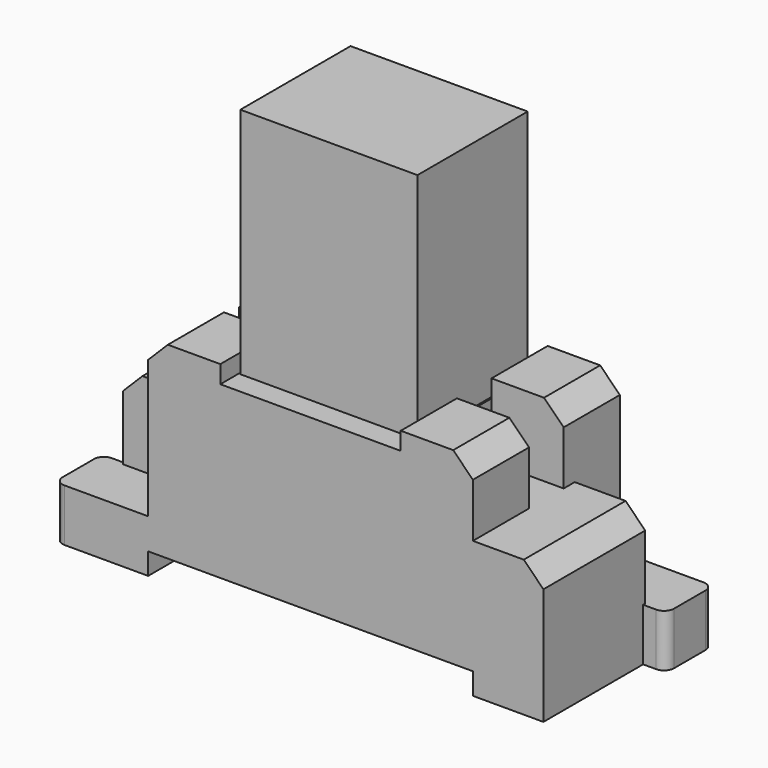
from build123d import *

# Parameters (mm, degrees)
F0_W     = 10.75
F0_H     = 8.6
F1_DEPTH = 3.3
F0_W_2   = 27
F0_H_2   = 21
F0_W_3   = 7.25
F0_H_3   = 10.7
F0_H_4   = 6.6
F0_W_4   = 3.75
F2_DEPTH = 4.7
F3_DEPTH = 17.5
F4_DEPTH = 28.7
F5_DEPTH = 26
F6_DEPTH = 61.5
F7_SIZE  = 3
F8_R     = 1.5


with BuildPart() as f1:
    # F0 (on Top) → F1 (new body)
    with BuildSketch(Plane.XY):
        Polygon((-3.5, 0), (0, 0), (0, 8.6), (0, 9), (-3.5, 9), align=None)
        with Locations((5.375, 4.3)):
            Rectangle(F0_W, F0_H)
        Polygon((0, 9), (0, 8.6), (10.75, 8.6), (10.75, 10.7), (10.75, 17.3), (10.75, 28), (0, 28), (0, 19), align=None)
    extrude(amount=-F1_DEPTH)



with BuildPart() as f1b:
    # F0 (on Top) → F1, piece 2 (new body)
    with BuildSketch(Plane.XY):
        Polygon((71, 19.4), (71, 19), (74.5, 19), (74.5, 28), (71, 28), align=None)
        with Locations((65.625, 23.7)):
            Rectangle(F0_W, F0_H)
        Polygon((60.25, 10.7), (60.25, 0), (71, 0), (71, 9), (71, 19), (71, 19.4), (60.25, 19.4), (60.25, 17.3), align=None)
    extrude(amount=-F1_DEPTH)


with BuildPart() as f1_1:
    add(f1.part)

    add(f1b.part)  # F2 merges F1b
    # F0 (on Top) → F2 (join)
    with BuildSketch(Plane.XY):
        Polygon((21.75, 10.7), (21.75, 0), (49.25, 0), (49.25, 10.7), (49.25, 17.3), (49.25, 28), (21.75, 28), (21.75, 17.3), align=None)
        with Locations((35.5, 14)):
            Rectangle(F0_W_2, F0_H_2, mode=Mode.SUBTRACT)
        with Locations((35.5, 14)):
            Rectangle(F0_W_2, F0_H_2)
        Polygon((0, 9), (0, 8.6), (10.75, 8.6), (10.75, 10.7), (10.75, 17.3), (10.75, 28), (0, 28), (0, 19), align=None)
        Polygon((60.25, 10.7), (60.25, 0), (71, 0), (71, 9), (71, 19), (71, 19.4), (60.25, 19.4), (60.25, 17.3), align=None)
        with Locations((65.625, 23.7)):
            Rectangle(F0_W, F0_H)
        with Locations((5.375, 4.3)):
            Rectangle(F0_W, F0_H)
        with Locations((56.625, 5.35)):
            Rectangle(F0_W_3, F0_H_3)
        Polygon((53, 28), (53, 17.3), (60.25, 17.3), (60.25, 19.4), (60.25, 28), align=None)
        Polygon((10.75, 8.6), (10.75, 0), (18, 0), (18, 10.7), (10.75, 10.7), align=None)
        with Locations((14.375, 22.65)):
            Rectangle(F0_W_3, F0_H_3)
        with Locations((14.375, 14)):
            Rectangle(F0_W_3, F0_H_4)
        with Locations((56.625, 14)):
            Rectangle(F0_W_3, F0_H_4)
        with Locations((51.125, 5.35)):
            Rectangle(F0_W_4, F0_H_3)
        with Locations((19.875, 5.35)):
            Rectangle(F0_W_4, F0_H_3)
        with Locations((51.125, 22.65)):
            Rectangle(F0_W_4, F0_H_3)
        with Locations((19.875, 22.65)):
            Rectangle(F0_W_4, F0_H_3)
        Polygon((71, 19.4), (71, 19), (74.5, 19), (74.5, 28), (71, 28), align=None)
        Polygon((-3.5, 0), (0, 0), (0, 8.6), (0, 9), (-3.5, 9), align=None)
        with Locations((19.875, 14)):
            Rectangle(F0_W_4, F0_H_4)
        with Locations((51.125, 14)):
            Rectangle(F0_W_4, F0_H_4)
    extrude(amount=F2_DEPTH)

    # F0 (on Top) → F3 (join)
    with BuildSketch(Plane.XY):
        Polygon((0, 9), (0, 8.6), (10.75, 8.6), (10.75, 10.7), (10.75, 17.3), (10.75, 28), (0, 28), (0, 19), align=None)
        Polygon((60.25, 10.7), (60.25, 0), (71, 0), (71, 9), (71, 19), (71, 19.4), (60.25, 19.4), (60.25, 17.3), align=None)
        with Locations((14.375, 14)):
            Rectangle(F0_W_3, F0_H_4)
        with Locations((19.875, 14)):
            Rectangle(F0_W_4, F0_H_4)
        with Locations((51.125, 14)):
            Rectangle(F0_W_4, F0_H_4)
        with Locations((56.625, 14)):
            Rectangle(F0_W_3, F0_H_4)
    extrude(amount=F3_DEPTH)

    # F0 (on Top) → F4 (join)
    with BuildSketch(Plane.XY):
        with Locations((14.375, 22.65)):
            Rectangle(F0_W_3, F0_H_3)
        Polygon((10.75, 8.6), (10.75, 0), (18, 0), (18, 10.7), (10.75, 10.7), align=None)
        with Locations((19.875, 5.35)):
            Rectangle(F0_W_4, F0_H_3)
        with Locations((19.875, 22.65)):
            Rectangle(F0_W_4, F0_H_3)
        with Locations((51.125, 22.65)):
            Rectangle(F0_W_4, F0_H_3)
        Polygon((53, 28), (53, 17.3), (60.25, 17.3), (60.25, 19.4), (60.25, 28), align=None)
        with Locations((56.625, 5.35)):
            Rectangle(F0_W_3, F0_H_3)
        with Locations((51.125, 5.35)):
            Rectangle(F0_W_4, F0_H_3)
    extrude(amount=F4_DEPTH)

    # F0 (on Top) → F5 (join)
    with BuildSketch(Plane.XY):
        Polygon((21.75, 10.7), (21.75, 0), (49.25, 0), (49.25, 10.7), (49.25, 17.3), (49.25, 28), (21.75, 28), (21.75, 17.3), align=None)
        with Locations((35.5, 14)):
            Rectangle(F0_W_2, F0_H_2, mode=Mode.SUBTRACT)
    extrude(amount=F5_DEPTH)

    # F0 (on Top) → F6 (join)
    with BuildSketch(Plane.XY):
        with Locations((35.5, 14)):
            Rectangle(F0_W_2, F0_H_2)
    extrude(amount=F6_DEPTH)

    # F7
    f7_edges = [f1_1.edges().sort_by_distance(p)[0] for p in [
        (10.75, 22.65, 28.7),
        (10.75, 5.35, 28.7),
        (60.25, 5.35, 28.7),
        (60.25, 22.65, 28.7),
        (0, 18.3, 17.5),
        (71, 9.7, 17.5),
    ]]
    chamfer(f7_edges, length=F7_SIZE)

    # F8
    f8_edges = [f1_1.edges().sort_by_distance(p)[0] for p in [
        (-3.5, 0, 0.7),
        (74.5, 28, 0.7),
        (74.5, 19, 0.7),
        (-3.5, 9, 0.7),
    ]]
    fillet(f8_edges, radius=F8_R)


solid = f1_1.part
